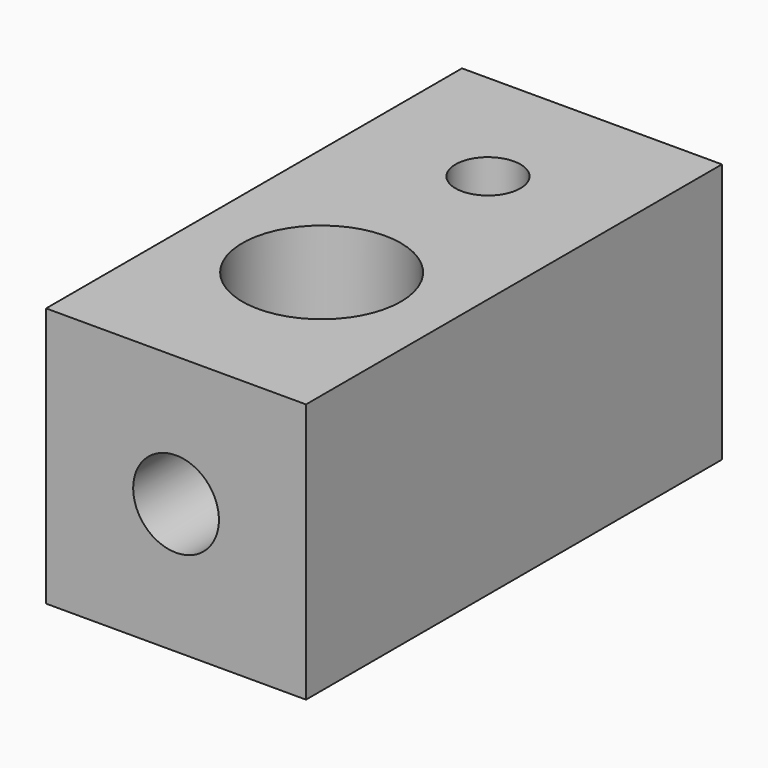
from build123d import *

# Parameters (mm, degrees)
F0_W     = 10
F0_H     = 20
F0_R     = 3.05
F0_R_2   = 1.25
F1_DEPTH = 10
F3_D     = 3.3
F3_DEPTH = 7


with BuildPart() as f1:
    # F0 (on Top) → F1 (new body)
    with BuildSketch(Plane.XY):
        with Locations((0, 3)):
            Rectangle(F0_W, F0_H)
        Circle(F0_R, mode=Mode.SUBTRACT)
        with Locations((0, 8)):
            Circle(F0_R_2, mode=Mode.SUBTRACT)
        with Locations((0, 3)):
            Rectangle(F0_W, F0_H)
        Circle(F0_R, mode=Mode.SUBTRACT)
        with Locations((0, 8)):
            Circle(F0_R_2, mode=Mode.SUBTRACT)
    extrude(amount=F1_DEPTH)

    # F3
    with Locations(Plane.XZ.offset(7)):
        with Locations((0, 5)):
            Hole(F3_D / 2, depth=F3_DEPTH)


solid = f1.part
